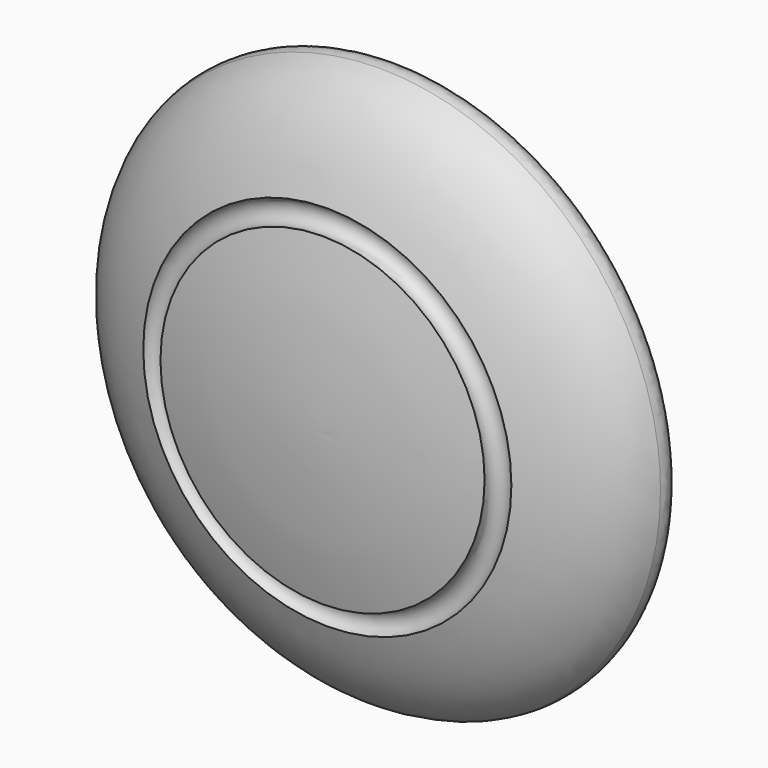
from build123d import *

# Parameters (mm, degrees)
F2_R = 0.762


with BuildPart() as f1:
    # F0 (on Top) → F1 (revolve)
    with BuildSketch(Plane.XY):
        with BuildLine():
            Line((3.175, 0), (0, 0))
            Line((0, 0), (0, -12.7))
            add(Edge.make_bspline(
                [(0, -12.7), (1.214668, -12.717949), (4.366045, -12.571287), (7.2255, -11.869547)],
                knots=[0, 0, 0, 0, 6.793851, 6.793851, 6.793851, 6.793851], degree=3))
            ThreePointArc((7.2255, -11.869547), (7.583665, -11.252302), (8.205612, -11.602239))
            add(Edge.make_bspline(
                [(8.205612, -11.602239), (10.683699, -10.852261), (12.718533, -9.618881), (12.7, -7.62)],
                knots=[7.582171, 7.582171, 7.582171, 7.582171, 13.678319, 13.678319, 13.678319, 13.678319], degree=3))
            Line((12.7, -7.62), (3.175, -7.62))
            Line((3.175, -7.62), (3.175, 0))
        make_face()
    revolve(axis=Axis((0, -6.35, 0), (0, 1, 0)))

    # F2
    f2_edges = [f1.edges().sort_by_distance(p)[0] for p in [
        (-12.7, -7.62, 0),
    ]]
    fillet(f2_edges, radius=F2_R)


solid = f1.part
